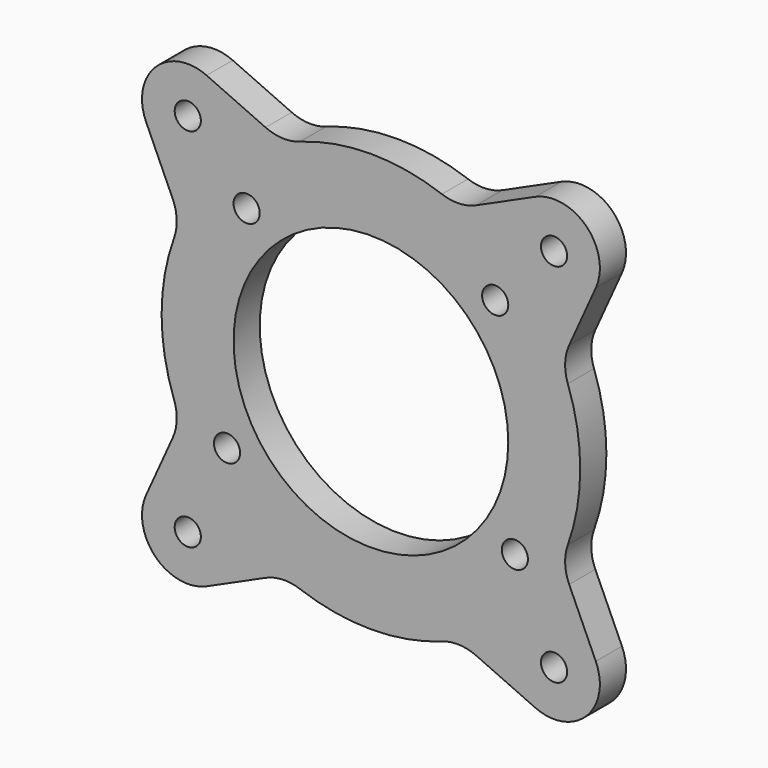
from build123d import *

# Parameters (mm, degrees)
F0_R     = 2
F0_R_2   = 21
F1_DEPTH = 5


with BuildPart() as f1:
    # F0 (on Front) → F1 (new body)
    with BuildSketch(Plane.XZ):
        with BuildLine():
            ThreePointArc((-25.119935, 34.380065), (-32.949747, 32.949747), (-34.380065, 25.119935))
            Line((-34.380065, 25.119935), (-30.309803, 16.103286))
            ThreePointArc((-30.309803, 16.103286), (-29.695207, 13.496561), (-30.104507, 10.849823))
            ThreePointArc((-30.104507, 10.849823), (-32, 0), (-30.104507, -10.849823))
            ThreePointArc((-30.104507, -10.849823), (-29.695207, -13.496561), (-30.309803, -16.103287))
            Line((-30.309803, -16.103287), (-34.380065, -25.119937))
            ThreePointArc((-34.380065, -25.119937), (-32.949747, -32.949749), (-25.119935, -34.380066))
            Line((-25.119935, -34.380066), (-16.103285, -30.309804))
            ThreePointArc((-16.103285, -30.309804), (-13.49656, -29.695207), (-10.849822, -30.104507))
            ThreePointArc((-10.849822, -30.104507), (1e-06, -32), (10.849823, -30.104507))
            ThreePointArc((10.849823, -30.104507), (13.496561, -29.695207), (16.103286, -30.309803))
            Line((16.103286, -30.309803), (25.119935, -34.380065))
            ThreePointArc((25.119935, -34.380065), (32.949747, -32.949747), (34.380065, -25.119935))
            Line((34.380065, -25.119935), (30.309803, -16.103286))
            ThreePointArc((30.309803, -16.103286), (29.695207, -13.496561), (30.104507, -10.849823))
            ThreePointArc((30.104507, -10.849823), (32, 0), (30.104507, 10.849823))
            ThreePointArc((30.104507, 10.849823), (29.695207, 13.496561), (30.309803, 16.103286))
            Line((30.309803, 16.103286), (34.380065, 25.119935))
            ThreePointArc((34.380065, 25.119935), (32.949747, 32.949747), (25.119935, 34.380065))
            Line((25.119935, 34.380065), (16.103286, 30.309803))
            ThreePointArc((16.103286, 30.309803), (13.496561, 29.695207), (10.849823, 30.104507))
            ThreePointArc((10.849823, 30.104507), (0, 32), (-10.849823, 30.104507))
            ThreePointArc((-10.849823, 30.104507), (-13.496561, 29.695207), (-16.103286, 30.309803))
            Line((-16.103286, 30.309803), (-25.119935, 34.380065))
        make_face()
        with Locations((-28, -28.000001)):
            Circle(F0_R, mode=Mode.SUBTRACT)
        with Locations((-22, -14.773287)):
            Circle(F0_R, mode=Mode.SUBTRACT)
        with Locations((28, -28)):
            Circle(F0_R, mode=Mode.SUBTRACT)
        with Locations((22, -14.773287)):
            Circle(F0_R, mode=Mode.SUBTRACT)
        with Locations((-19, 18.472953)):
            Circle(F0_R, mode=Mode.SUBTRACT)
        with Locations((-28, 28)):
            Circle(F0_R, mode=Mode.SUBTRACT)
        Circle(F0_R_2, mode=Mode.SUBTRACT)
        with Locations((19, 18.472953)):
            Circle(F0_R, mode=Mode.SUBTRACT)
        with Locations((28, 28)):
            Circle(F0_R, mode=Mode.SUBTRACT)
    extrude(amount=F1_DEPTH)


solid = f1.part
